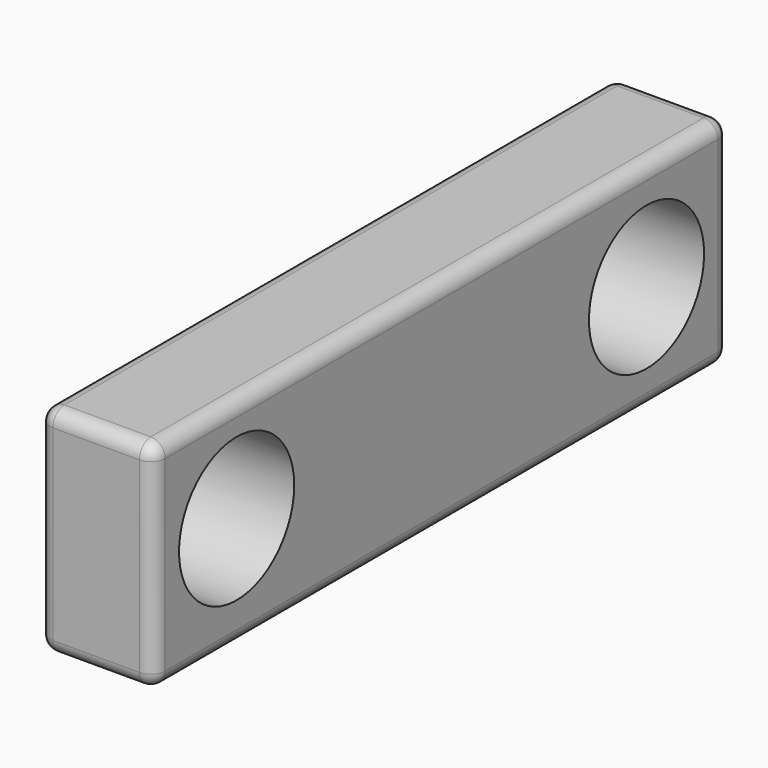
from build123d import *

# Parameters (mm, degrees)
F0_W          = 63.5
F0_H          = 19.05
F1_DEPTH      = 5.08
F1_DEPTH_BACK = 5.08
F2_R          = 6.35
F3_DEPTH      = 25.4
F4_R          = 1.27


with BuildPart() as f1:
    # F0 (on Right) → F1 (new body, two sides)
    with BuildSketch(Plane.YZ) as f1_sk:
        Rectangle(F0_W, F0_H)
    extrude(amount=F1_DEPTH)
    extrude(f1_sk.sketch, amount=-F1_DEPTH_BACK)

    # F2 (on face) → F3 (cut)
    with BuildSketch(Plane.YZ.offset(5.08)):
        with Locations((22.606, 0)):
            Circle(F2_R)
        with Locations((-22.606, 0.390719)):
            Circle(F2_R)
    extrude(amount=-F3_DEPTH, mode=Mode.SUBTRACT)

    # F4
    f4_edges = [f1.edges().sort_by_distance(p)[0] for p in [
        (5.08, 0, 9.525),
        (0, -31.75, 9.525),
        (-5.08, 0, 9.525),
        (0, 31.75, 9.525),
        (5.08, 31.75, 0),
        (-5.08, 31.75, 0),
        (0, 31.75, -9.525),
        (0, -31.75, -9.525),
        (5.08, 0, -9.525),
        (-5.08, 0, -9.525),
        (5.08, -31.75, 0),
        (-5.08, -31.75, 0),
    ]]
    fillet(f4_edges, radius=F4_R)


solid = f1.part
